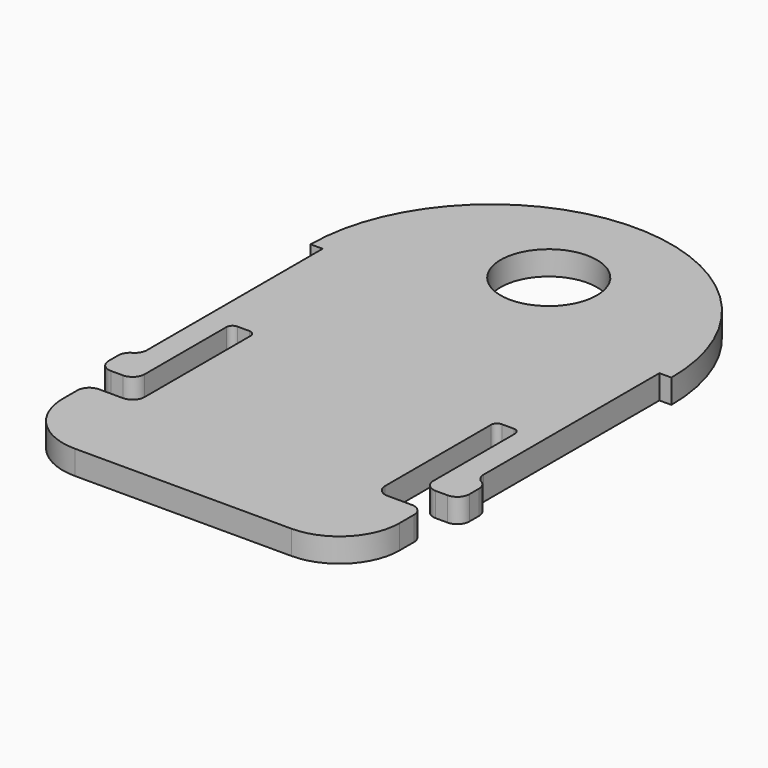
from build123d import *

# Parameters (mm, degrees)
F0_R     = 4
F1_DEPTH = 2


with BuildPart() as f1:
    # F0 (on Top) → F1 (new body)
    with BuildSketch(Plane.XY):
        with BuildLine():
            ThreePointArc((-14, 5), (-12.535534, 1.464466), (-9, 0))
            Line((-9, 0), (9, 0))
            ThreePointArc((9, 0), (12.535534, 1.464466), (14, 5))
            Line((14, 5), (14, 6.5))
            ThreePointArc((14, 6.5), (13.707107, 7.207107), (13, 7.5))
            Line((13, 7.5), (11, 7.5))
            ThreePointArc((11, 7.5), (10.292893, 7.792893), (10, 8.5))
            Line((10, 8.5), (10, 19.5))
            ThreePointArc((10, 19.5), (10.146447, 19.853553), (10.5, 20))
            Line((10.5, 20), (11.5, 20))
            ThreePointArc((11.5, 20), (11.853553, 19.853553), (12, 19.5))
            Line((12, 19.5), (12, 11))
            ThreePointArc((12, 11), (12.292893, 10.292893), (13, 10))
            Line((13, 10), (14, 10))
            ThreePointArc((14, 10), (14.707107, 10.292893), (15, 11))
            Line((15, 11), (15, 12))
            ThreePointArc((15, 12), (14.866025, 12.5), (14.5, 12.866025))
            ThreePointArc((14.5, 12.866025), (14.133975, 13.232051), (14, 13.732051))
            Line((14, 13.732051), (14, 32))
            Line((14, 32), (15, 32))
            ThreePointArc((15, 32), (0, 47), (-15, 32))
            Line((-15, 32), (-14, 32))
            Line((-14, 32), (-14, 13.732051))
            ThreePointArc((-14, 13.732051), (-14.133975, 13.232051), (-14.5, 12.866025))
            ThreePointArc((-14.5, 12.866025), (-14.866025, 12.5), (-15, 12))
            Line((-15, 12), (-15, 11))
            ThreePointArc((-15, 11), (-14.707107, 10.292893), (-14, 10))
            Line((-14, 10), (-13, 10))
            ThreePointArc((-13, 10), (-12.292893, 10.292893), (-12, 11))
            Line((-12, 11), (-12, 19.5))
            ThreePointArc((-12, 19.5), (-11.853553, 19.853553), (-11.5, 20))
            Line((-11.5, 20), (-10.5, 20))
            ThreePointArc((-10.5, 20), (-10.146447, 19.853553), (-10, 19.5))
            Line((-10, 19.5), (-10, 8.5))
            ThreePointArc((-10, 8.5), (-10.292893, 7.792893), (-11, 7.5))
            Line((-11, 7.5), (-13, 7.5))
            ThreePointArc((-13, 7.5), (-13.707107, 7.207107), (-14, 6.5))
            Line((-14, 6.5), (-14, 5))
        make_face()
        with Locations((0, 38)):
            Circle(F0_R, mode=Mode.SUBTRACT)
    extrude(amount=F1_DEPTH)


solid = f1.part
